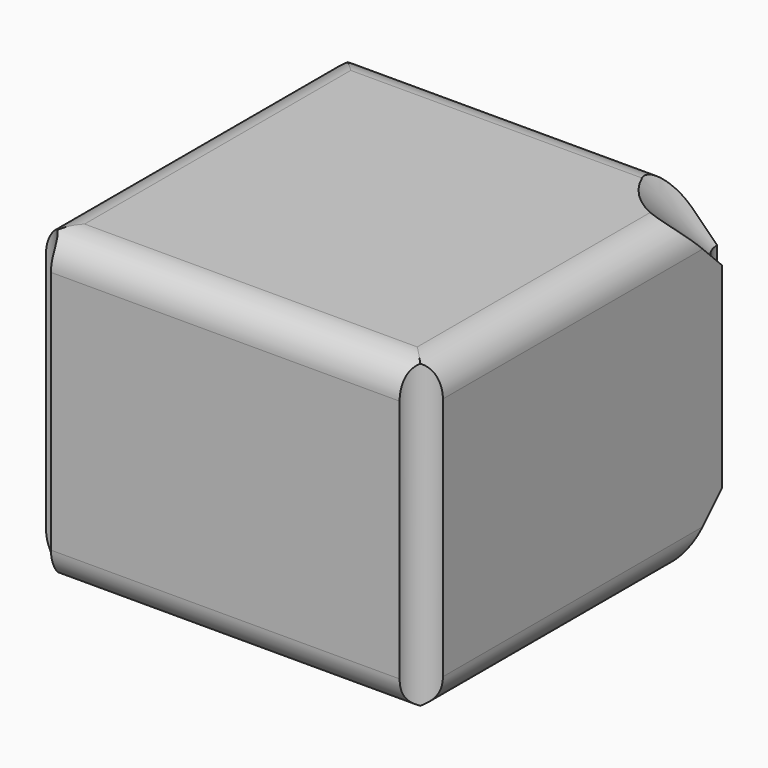
from build123d import *

# Parameters (mm, degrees)
F0_W     = 495
F0_H     = 495
F1_DEPTH = 385
F2_R     = 40
F5_R     = 30
F6_DEPTH = 385.0010001


with BuildPart() as f1:
    # F0 (on Top) → F1 (new body)
    with BuildSketch(Plane.XY):
        Rectangle(F0_W, F0_H)
    extrude(amount=F1_DEPTH)

    # F2
    f2_edges = [f1.edges().sort_by_distance(p)[0] for p in [
        (-247.5, 0, 385),
        (0, -247.5, 385),
        (247.5, 0, 385),
        (0, 247.5, 385),
        (247.5, 0, 0),
        (0, -247.5, 0),
        (-247.5, 0, 0),
        (0, 247.5, 0),
    ]]
    fillet(f2_edges, radius=F2_R)

    # F3 (on face) → F4 (revolve, cut)
    with BuildSketch(Plane.YZ.offset(247.5)):
        Polygon((147.5, 385), (247.5, 285), (247.5, 385), align=None)
        Polygon((247.5, 52.9406964779), (247.5, 100), (147.5, 0), (247.5, 0), align=None)
    revolve(axis=Axis((247.5, 247.5, 295.5484241247), (0, 0, 1)), mode=Mode.SUBTRACT)

    # F5 (on face) + F1_face2 (on face) → F6 (cut, through all)
    with BuildSketch(Plane.XY.offset(385)):
        with Locations((247.5, 247.5)):
            Circle(F5_R)
        with Locations((-247.5, 247.5)):
            Circle(F5_R)
        with Locations((-247.5, -247.5)):
            Circle(F5_R)
        with Locations((247.5, -247.5)):
            Circle(F5_R)
    with BuildSketch(Plane(origin=(-1.8452724724, -1.8452724724, 0), x_dir=(1, 0, 0), z_dir=(0, 0, -1))):
        with BuildLine():
            Line((209.3452724724, 205.6547275276), (-205.6547275276, 205.6547275276))
            Line((-205.6547275276, 205.6547275276), (-205.6547275276, -209.3452724724))
            Line((-205.6547275276, -209.3452724724), (157.6937585733, -209.3452724724))
            ThreePointArc((157.6937585733, -209.3452724724), (178.6345943538, -178.6345943538), (209.3452724724, -157.6937585733))
            Line((209.3452724724, -157.6937585733), (209.3452724724, 205.6547275276))
        make_face()
    extrude(amount=-F6_DEPTH, dir=(0, 0, 1), mode=Mode.SUBTRACT)


solid = f1.part
